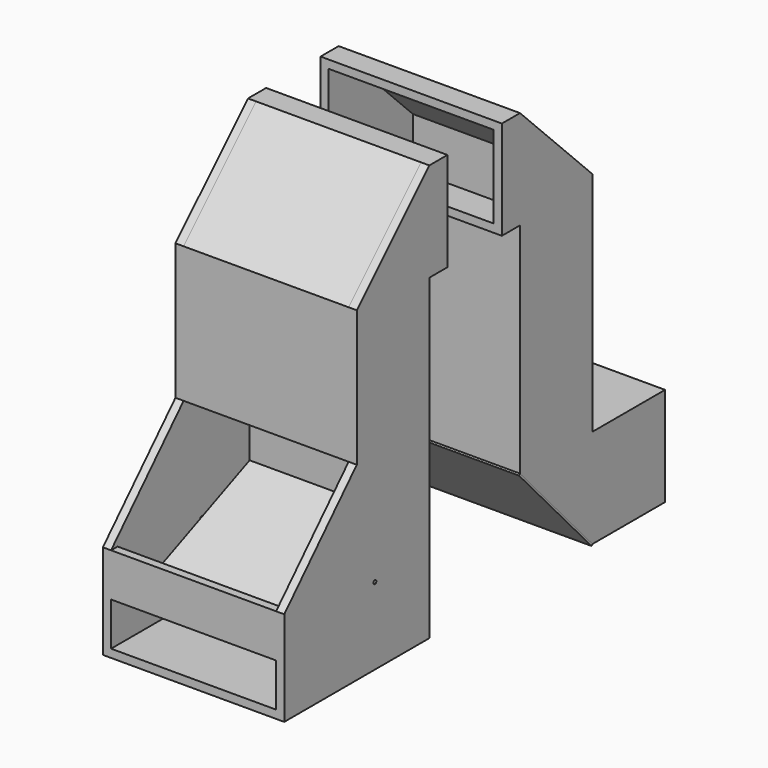
from build123d import *

# Parameters (mm, degrees)
F0_W      = 400
F0_H      = 400
F1_DEPTH  = 18
F3_DEPTH  = 400
F2_W      = 364
F2_H      = 18
F4_DEPTH  = 700
F6_DEPTH  = 191
F7_W      = 364
F7_H      = 95.5
F8_DEPTH  = 25
F9_DEPTH  = 400.001
F10_DEPTH = 300
F11_DEPTH = 300
F12_W     = 18
F12_H     = 300
F13_DEPTH = 364
F16_DEPTH = 364
F17_DEPTH = 18
F18_R     = 4
F19_DEPTH = 18
F20_W     = 18
F20_H     = 200
F21_DEPTH = 200
F23_DEPTH = 400.001
F24_W     = 18
F24_H     = 18
F24_W_2   = 364
F24_H_2   = 182
F25_DEPTH = 50
F27_W     = 400
F27_H     = 218
F27_W_2   = 364
F27_H_2   = 182
F28_DEPTH = 200
F29_W     = 364
F29_H     = 18
F30_DEPTH = 700
F31_DEPTH = 25
F33_DEPTH = 400.001
F35_DEPTH = 364
F36_W     = 18
F36_H     = 182
F37_DEPTH = 50
F38_W     = 364
F38_H     = 18
F39_DEPTH = 25
F41_DEPTH = 364
F42_W     = 364
F42_H     = 182
F43_DEPTH = 25
F42_W_2   = 400
F42_H_2   = 218
F44_DEPTH = 200
F46_DEPTH = 400.001
F47_W     = 400
F47_H     = 295.8445537778
F48_DEPTH = 4


with BuildPart() as f1:
    # F0 (on Top) → F1 (new body)
    with BuildSketch(Plane.XY):
        with Locations((6.6944919527, 34.1483235822)):
            Rectangle(F0_W, F0_H)
    extrude(amount=-F1_DEPTH)

    # F2 (on face) → F3 (join)
    with BuildSketch(Plane.XY):
        Polygon((-175.3055080473, 216.1483235822), (-175.3055080473, 234.1483235822), (-193.3055080473, 234.1483235822), (-193.3055080473, -165.8516764178), (-175.3055080473, -165.8516764178), (-175.3055080473, -147.8516764178), align=None)
        Polygon((206.6944919527, -165.8516764178), (206.6944919527, 234.1483235822), (188.6944919527, 234.1483235822), (188.6944919527, 216.1483235822), (188.6944919527, -147.8516764178), (188.6944919527, -165.8516764178), align=None)
    extrude(amount=F3_DEPTH)

    # F2 (on face) → F4 (join)
    with BuildSketch(Plane.XY):
        with Locations((6.6944919527, 225.1483235822)):
            Rectangle(F2_W, F2_H)
    extrude(amount=F4_DEPTH)

    # F2 (on face) → F6 (join)
    with BuildSketch(Plane.XY):
        with Locations((6.6944919527, -156.8516764178)):
            Rectangle(F2_W, F2_H)
    extrude(amount=F6_DEPTH)

    # F7 (on face) → F8 (cut)
    with BuildSketch(Plane.XZ.offset(165.8516764178)):
        with Locations((6.6944919527, 47.75)):
            Rectangle(F7_W, F7_H)
    extrude(amount=-F8_DEPTH, mode=Mode.SUBTRACT)

    # F5 (on face) → F9 (cut, through all)
    with BuildSketch(Plane.YZ.offset(206.6944919527)):
        Polygon((-165.8516764178, 400), (-165.8516764178, 191), (34.1483235822, 400), align=None)
    extrude(amount=-F9_DEPTH, mode=Mode.SUBTRACT)

    # F10 (add): a face of the model
    f10_faces = [f1.faces().sort_by_distance(p)[0] for p in [
        (-184.3055080473, 134.1483235822, 400),
    ]]
    extrude(f10_faces, amount=F10_DEPTH)

    # F11 (add): a face of the model
    f11_faces = [f1.faces().sort_by_distance(p)[0] for p in [
        (197.6944919527, 134.1483235822, 400),
    ]]
    extrude(f11_faces, amount=F11_DEPTH)

    # F12 (on face) → F13 (join, through all)
    with BuildSketch(Plane.YZ.offset(-175.3055080473)):
        with Locations((43.1483235822, 550)):
            Rectangle(F12_W, F12_H)
    extrude(amount=F13_DEPTH)

    # F14 (on face) → F17 (cut)
    with BuildSketch(Plane.YZ.offset(206.6944919527)):
        with BuildLine():
            Line((87.0382903364, 149.1938117185), (84.1483235822, 151.9593301435))
            Line((84.1483235822, 151.9593301435), (80.4698678124, 150.3880366796))
            ThreePointArc((80.4698678124, 150.3880366796), (83.4328013629, 148.0238469517), (87.0382903364, 149.1938117185))
        make_face()
        with BuildLine():
            Line((84.1483235822, 151.9593301435), (81.258356828, 154.7248485686))
            ThreePointArc((81.258356828, 154.7248485686), (80.2128403903, 152.6748523629), (80.4698678124, 150.3880366796))
            Line((80.4698678124, 150.3880366796), (84.1483235822, 151.9593301435))
        make_face()
        with BuildLine():
            ThreePointArc((84.1483235822, 155.9593301435), (82.5770301183, 155.6377859133), (81.258356828, 154.7248485686))
            Line((81.258356828, 154.7248485686), (84.1483235822, 151.9593301435))
            Line((84.1483235822, 151.9593301435), (84.1483235822, 155.9593301435))
        make_face()
        with BuildLine():
            Line((84.1483235822, 155.9593301435), (84.1483235822, 151.9593301435))
            Line((84.1483235822, 151.9593301435), (86.9138420073, 154.8492968978))
            ThreePointArc((86.9138420073, 154.8492968978), (85.6383123377, 155.6714634262), (84.1483235822, 155.9593301435))
        make_face()
        with BuildLine():
            Line((86.9138420073, 154.8492968978), (84.1483235822, 151.9593301435))
            Line((84.1483235822, 151.9593301435), (87.826779352, 153.5306236075))
            ThreePointArc((87.826779352, 153.5306236075), (87.4370810478, 154.2361863824), (86.9138420073, 154.8492968978))
        make_face()
        with BuildLine():
            Line((87.826779352, 153.5306236075), (84.1483235822, 151.9593301435))
            Line((84.1483235822, 151.9593301435), (88.1483235822, 151.9593301435))
            ThreePointArc((88.1483235822, 151.9593301435), (88.0671131325, 152.7612581082), (87.826779352, 153.5306236075))
        make_face()
        with BuildLine():
            Line((88.1483235822, 151.9593301435), (84.1483235822, 151.9593301435))
            Line((84.1483235822, 151.9593301435), (87.0382903364, 149.1938117185))
            ThreePointArc((87.0382903364, 149.1938117185), (87.8604568649, 150.469341388), (88.1483235822, 151.9593301435))
        make_face()
    extrude(amount=-F17_DEPTH, mode=Mode.SUBTRACT)

    # F18 (on face) → F19 (cut)
    with BuildSketch(Plane(origin=(-193.3055080473, 0, 0), x_dir=(0, -1, 0), z_dir=(-1, 0, 0))):
        with Locations((-84.1483235822, 151.9593301435)):
            Circle(F18_R)
    extrude(amount=-F19_DEPTH, mode=Mode.SUBTRACT)

    # F20 (on face) → F21 (join)
    with BuildSketch(Plane.XY.offset(700)):
        with Locations((-184.3055080473, 134.1483235822)):
            Rectangle(F20_W, F20_H)
        with Locations((197.6944919527, 134.1483235822)):
            Rectangle(F20_W, F20_H)
    extrude(amount=F21_DEPTH)

    # F22 (on face) → F23 (cut, through all)
    with BuildSketch(Plane.YZ.offset(206.6944919527)):
        Polygon((34.1483235822, 900), (34.1483235822, 700), (234.1483235822, 900), align=None)
    extrude(amount=-F23_DEPTH, mode=Mode.SUBTRACT)

    # F24 (on face) → F25 (join)
    with BuildSketch(Plane(origin=(0, 234.1483235822, 0), x_dir=(-1, 0, 0), z_dir=(0, 1, 0))):
        with Locations((-197.6944919527, 891)):
            Rectangle(F24_W, F24_H)
        with Locations((-6.6944919527, 891)):
            Rectangle(F24_W_2, F24_H)
        with Locations((-197.6944919527, 791)):
            Rectangle(F24_W, F24_H_2)
        with Locations((184.3055080473, 891)):
            Rectangle(F24_W, F24_H)
        Polygon((-188.6944919527, 700), (-206.6944919527, 700), (-206.6944919527, 682), (193.3055080473, 682), (193.3055080473, 700), (175.3055080473, 700), align=None)
        with Locations((184.3055080473, 791)):
            Rectangle(F24_W, F24_H_2)
    extrude(amount=F25_DEPTH)


with BuildPart() as f16:
    # F15 (on face) → F16 (new body, through all)
    with BuildSketch(Plane(origin=(188.6944919527, 0, 0), x_dir=(0, -1, 0), z_dir=(-1, 0, 0))):
        Polygon((87.0555304103, 81.0025175254), (-216.417070596, 210.6342283005), (-217.9883640599, 206.9557725307), (85.4842369464, 77.3240617557), align=None)
    extrude(amount=F16_DEPTH)


with BuildPart() as f28:
    # F27 (on offset) → F28 (new body)
    with BuildSketch(Plane(origin=(0, 484.1483235822, 0), x_dir=(-1, 0, 0), z_dir=(0, 1, 0))):
        with Locations((-6.6944919527, 791)):
            Rectangle(F27_W, F27_H)
        with Locations((-6.6944919527, 791)):
            Rectangle(F27_W_2, F27_H_2, mode=Mode.SUBTRACT)
    extrude(amount=F28_DEPTH)

    # F29 (on face) → F30 (join)
    with BuildSketch(Plane(origin=(0, 0, 682), x_dir=(1, 0, 0), z_dir=(0, 0, -1))):
        Polygon((206.6944919527, -684.1483235822), (206.6944919527, -484.1483235822), (188.6944919527, -484.1483235822), (188.6944919527, -502.1483235822), (188.6944919527, -666.1483235822), (188.6944919527, -684.1483235822), align=None)
        with Locations((6.6944919527, -493.1483235822)):
            Rectangle(F29_W, F29_H)
        Polygon((-175.3055080473, -502.1483235822), (-175.3055080473, -484.1483235822), (-193.3055080473, -484.1483235822), (-193.3055080473, -684.1483235822), (-175.3055080473, -684.1483235822), (-175.3055080473, -666.1483235822), align=None)
        with Locations((6.6944919527, -675.1483235822)):
            Rectangle(F29_W, F29_H)
    extrude(amount=F30_DEPTH)

    # F31 (cut): a face of the model
    f31_faces = [f28.faces().sort_by_distance(p)[0] for p in [
        (6.6944919527, 584.1483235822, 682),
    ]]
    extrude(f31_faces, amount=-F31_DEPTH, mode=Mode.SUBTRACT)

    # F32 (on face) → F33 (cut, through all)
    with BuildSketch(Plane.YZ.offset(206.6944919527)):
        Polygon((484.1483235822, 900), (684.1483235822, 700), (684.1483235822, 900), align=None)
    extrude(amount=-F33_DEPTH, mode=Mode.SUBTRACT)

    # F36 (on face) → F37 (join)
    with BuildSketch(Plane.XZ.offset(-484.1483235822)):
        Polygon((206.6944919527, 900), (-193.3055080473, 900), (-193.3055080473, 882), (-175.3055080473, 882), (188.6944919527, 882), (206.6944919527, 882), align=None)
        with Locations((-184.3055080473, 791)):
            Rectangle(F36_W, F36_H)
        with Locations((197.6944919527, 791)):
            Rectangle(F36_W, F36_H)
        Polygon((-175.3055080473, 700), (-193.3055080473, 700), (-193.3055080473, 682), (206.6944919527, 682), (206.6944919527, 700), (188.6944919527, 700), align=None)
    extrude(amount=F37_DEPTH)

    # F38 (on face) → F39 (cut)
    with BuildSketch(Plane(origin=(0, 0, 882), x_dir=(1, 0, 0), z_dir=(0, 0, -1))):
        with Locations((6.6944919527, -493.1483235822)):
            Rectangle(F38_W, F38_H)
    extrude(amount=-F39_DEPTH, mode=Mode.SUBTRACT)

    # F42 (on face) → F43 (cut)
    with BuildSketch(Plane(origin=(0, 684.1483235822, 0), x_dir=(-1, 0, 0), z_dir=(0, 1, 0))):
        with Locations((-6.6944919527, 91)):
            Rectangle(F42_W, F42_H)
    extrude(amount=-F43_DEPTH, mode=Mode.SUBTRACT)

    # F42 (on face) → F44 (join)
    with BuildSketch(Plane(origin=(0, 684.1483235822, 0), x_dir=(-1, 0, 0), z_dir=(0, 1, 0))):
        with Locations((-6.6944919527, 91)):
            Rectangle(F42_W_2, F42_H_2)
        with Locations((-6.6944919527, 91)):
            Rectangle(F42_W, F42_H, mode=Mode.SUBTRACT)
    extrude(amount=F44_DEPTH)

    # F45 (on face) → F46 (cut, through all)
    with BuildSketch(Plane.YZ.offset(206.6944919527)):
        Polygon((684.1483235822, -18), (484.1483235822, 200), (484.1483235822, -18), align=None)
    extrude(amount=-F46_DEPTH, mode=Mode.SUBTRACT)


with BuildPart() as f35:
    # F34 (on face) → F35 (new body, through all)
    with BuildSketch(Plane.YZ.offset(-175.3055080473)):
        Polygon((234.1483235822, 900), (34.1483235822, 700), (52.1483235822, 700), (234.1483235822, 882), align=None)
    extrude(amount=F35_DEPTH)


with BuildPart() as f41:
    # F40 (on face) → F41 (new body, through all)
    with BuildSketch(Plane.YZ.offset(-175.3055080473)):
        Polygon((684.1483235822, 700), (484.1483235822, 900), (484.1483235822, 882), (666.1483235822, 700), align=None)
    extrude(amount=F41_DEPTH)


with BuildPart() as f48:
    # F47 (on face) → F48 (new body)
    with BuildSketch(Plane(origin=(0, 362.513881106, 332.5815422991), x_dir=(1, 0, 0), z_dir=(0, -0.7368734601, -0.6760306974))):
        with Locations((6.6944919527, -327.8467136809)):
            Rectangle(F47_W, F47_H)
    extrude(amount=F48_DEPTH)


solid = Compound([f1.part, f16.part, f28.part, f35.part, f41.part, f48.part])
